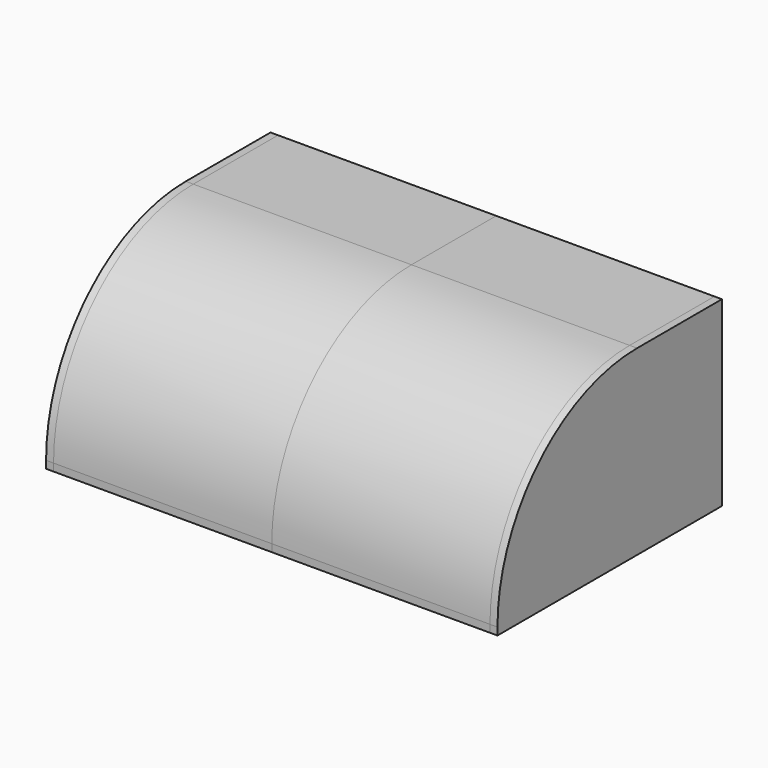
from build123d import *

# Parameters (mm, degrees)
F2_W     = 350
F2_H     = 450
F3_DEPTH = 12
F5_DEPTH = 12
F7_DEPTH = 350


with BuildPart() as f3:
    # F2 (on Top) → F3 (new body)
    with BuildSketch(Plane.XY):
        with Locations((-175, 225)):
            Rectangle(F2_W, F2_H)
    extrude(amount=F3_DEPTH)


with BuildPart() as f5:
    # F4 (on face) → F5 (new body)
    with BuildSketch(Plane(origin=(-350, 0, 0), x_dir=(0, -1, 0), z_dir=(-1, 0, 0))):
        with BuildLine():
            Line((-450, 292), (-450, 0))
            Line((-450, 0), (0, 0))
            Line((0, 0), (0, 12))
            ThreePointArc((0, 12), (-82.0101012678, 209.9898987322), (-280, 292))
            Line((-280, 292), (-450, 292))
        make_face()
    extrude(amount=F5_DEPTH)


with BuildPart() as f7:
    # F6 (on face) → F7 (new body)
    with BuildSketch(Plane.YZ.offset(-350)):
        with BuildLine():
            Line((280, 287), (445, 287))
            Line((445, 287), (445, 12))
            Line((445, 12), (450, 12))
            Line((450, 12), (450, 292))
            Line((450, 292), (280, 292))
            ThreePointArc((280, 292), (82.0101012678, 209.9898987322), (0, 12))
            Line((0, 12), (5, 12))
            ThreePointArc((5, 12), (85.5456351737, 206.4543648263), (280, 287))
        make_face()
    extrude(amount=F7_DEPTH)


with BuildPart() as f8_1:
    # F8: instance of F3
    add(f3.part.mirror(Plane(origin=(0, 261.2738011127, 195.8989357259), x_dir=(0, 1, 0), z_dir=(1, 0, 0))))


with BuildPart() as f8_2:
    # F8: instance of F5
    add(f5.part.mirror(Plane(origin=(0, 261.2738011127, 195.8989357259), x_dir=(0, 1, 0), z_dir=(1, 0, 0))))


with BuildPart() as f8_3:
    # F8: instance of F7
    add(f7.part.mirror(Plane(origin=(0, 261.2738011127, 195.8989357259), x_dir=(0, 1, 0), z_dir=(1, 0, 0))))


solid = Compound([f3.part, f5.part, f7.part, f8_1.part, f8_2.part, f8_3.part])
